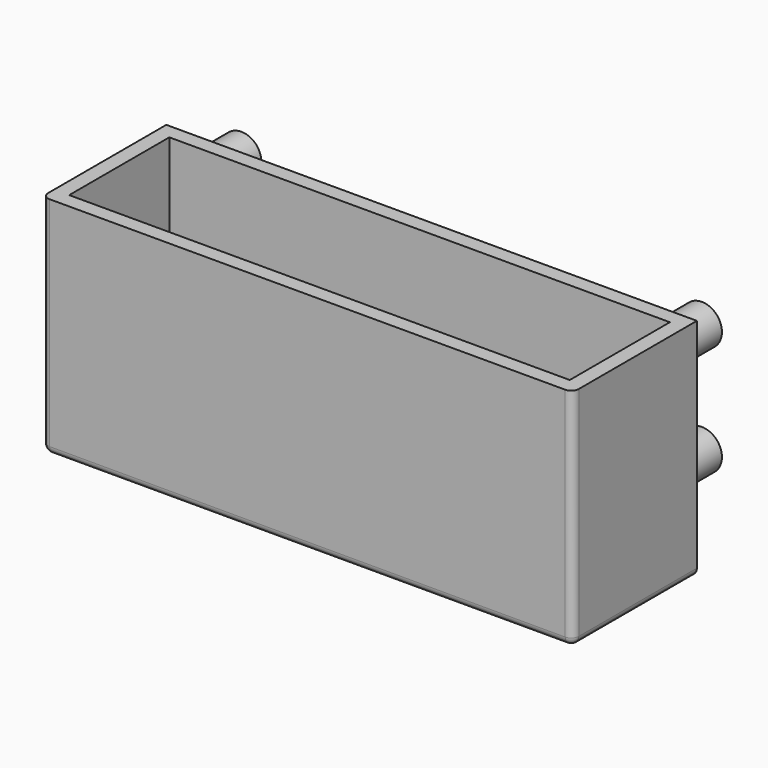
from build123d import *

# Parameters (mm, degrees)
CYLINDER_R             = 4
CYLINDER_DEPTH         = 10
CYLINDER_ROLL_ANGLE    = 90
CYLINDER001_R          = 4
CYLINDER001_DEPTH      = 10
CYLINDER001_ROLL_ANGLE = 90
CYLINDER002_R          = 4
CYLINDER002_DEPTH      = 10
CYLINDER002_ROLL_ANGLE = 90
CYLINDER003_R          = 4
CYLINDER003_DEPTH      = 10
CYLINDER003_ROLL_ANGLE = 90
BOX_W                  = 100
BOX_H                  = 25
BOX_DEPTH              = 42
BOX001_W               = 106
BOX001_H               = 31
BOX001_DEPTH           = 45
FILLET_R               = 1.5


with BuildPart() as pin1:
    # Cylinder → Cylinder (new body)
    with BuildSketch(Plane.XY):
        Circle(CYLINDER_R)
    extrude(amount=CYLINDER_DEPTH)


with BuildPart() as pin1_1:
    # Cylinder roll: moved
    add(pin1.part.rotate(Axis((0, 0, 0), (1, 0, 0)), CYLINDER_ROLL_ANGLE))


with BuildPart() as pin1_2:
    # Cylinder placement: moved
    add(pin1_1.part)


with BuildPart() as pin2:
    # Cylinder001 → Cylinder001 (new body)
    with BuildSketch(Plane.XY):
        Circle(CYLINDER001_R)
    extrude(amount=CYLINDER001_DEPTH)


with BuildPart() as pin2_1:
    # Cylinder001 roll: moved
    add(pin2.part.rotate(Axis((0, 0, 0), (1, 0, 0)), CYLINDER001_ROLL_ANGLE))


with BuildPart() as pin2_2:
    # Cylinder001 placement: moved
    add(pin2_1.part.moved(Location((92, 0, 0))))


with BuildPart() as pin3:
    # Cylinder002 → Cylinder002 (new body)
    with BuildSketch(Plane.XY):
        Circle(CYLINDER002_R)
    extrude(amount=CYLINDER002_DEPTH)


with BuildPart() as pin3_1:
    # Cylinder002 roll: moved
    add(pin3.part.rotate(Axis((0, 0, 0), (1, 0, 0)), CYLINDER002_ROLL_ANGLE))


with BuildPart() as pin3_2:
    # Cylinder002 placement: moved
    add(pin3_1.part.moved(Location((0, 0, 22))))


with BuildPart() as pin4:
    # Cylinder003 → Cylinder003 (new body)
    with BuildSketch(Plane.XY):
        Circle(CYLINDER003_R)
    extrude(amount=CYLINDER003_DEPTH)


with BuildPart() as pin4_1:
    # Cylinder003 roll: moved
    add(pin4.part.rotate(Axis((0, 0, 0), (1, 0, 0)), CYLINDER003_ROLL_ANGLE))


with BuildPart() as pin4_2:
    # Cylinder003 placement: moved
    add(pin4_1.part.moved(Location((92, 0, 22))))


with BuildPart() as inside:
    # Box → Box (new body)
    with BuildSketch(Plane(origin=(-4, -38, -13), x_dir=(1, 0, 0), z_dir=(0, 0, 1))):
        with Locations((50, 12.5)):
            Rectangle(BOX_W, BOX_H)
    extrude(amount=BOX_DEPTH)


with BuildPart() as fillet_body:
    # Box001 → Box001 (new body)
    with BuildSketch(Plane(origin=(-7, -41, -16), x_dir=(1, 0, 0), z_dir=(0, 0, 1))):
        with Locations((53, 15.5)):
            Rectangle(BOX001_W, BOX001_H)
    extrude(amount=BOX001_DEPTH)

    # Cut: cut inside
    add(inside.part, mode=Mode.SUBTRACT)

    # Fillet
    fillet_edges = [fillet_body.edges().sort_by_distance(p)[0] for p in [
        (-7, -41, 6.5),
        (-7, -25.5, -16),
        (46, -41, -16),
        (99, -41, 6.5),
        (99, -25.5, -16),
    ]]
    fillet(fillet_edges, radius=FILLET_R)


solid = Compound([pin1_2.part, pin2_2.part, pin3_2.part, pin4_2.part, fillet_body.part])
